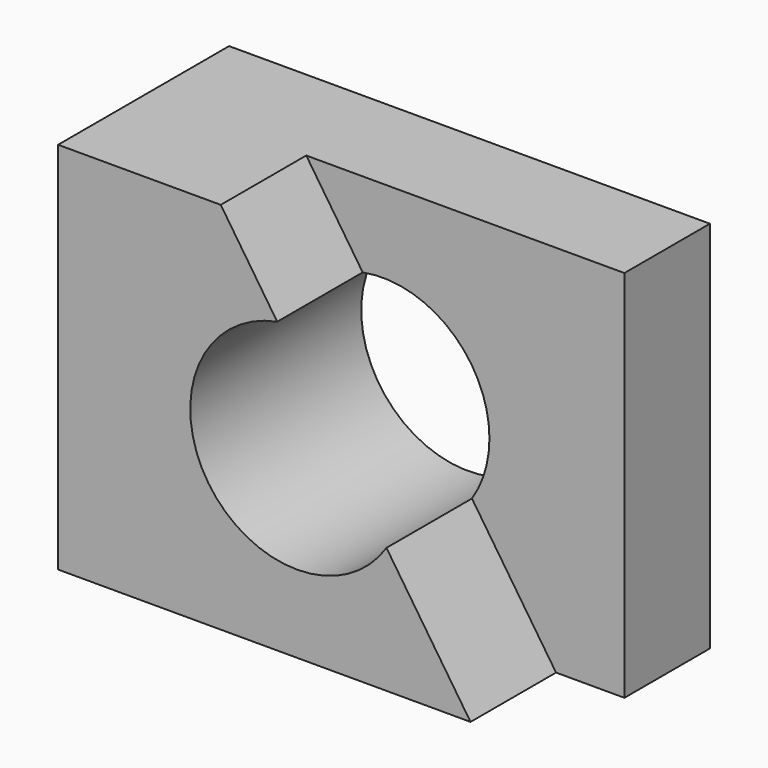
from build123d import *

# Parameters (mm, degrees)
F0_W     = 114.3
F0_H     = 50.8
F1_DEPTH = 88.9
F3_DEPTH = 25.4
F5_DEPTH = 25.4
F6_R     = 25.4
F7_DEPTH = 92.202


with BuildPart() as f1:
    # F0 (on Top) → F1 (new body)
    with BuildSketch(Plane.XY):
        with Locations((37.11038, -46.895293)):
            Rectangle(F0_W, F0_H)
    extrude(amount=F1_DEPTH)

    # F2 (on face) → F3 (cut)
    with BuildSketch(Plane.XZ.offset(72.295293)):
        Polygon((68.86038, 0), (94.26038, 0), (94.26038, 88.9), (18.62484, 88.9), align=None)
        Polygon((18.62484, 0), (68.86038, 0), (18.62484, 88.9), align=None)
    extrude(amount=-F3_DEPTH, mode=Mode.SUBTRACT)

    # F4 (on face) → F5 (join)
    with BuildSketch(Plane.XZ.offset(46.895293)):
        Polygon((78.006379, 0), (18.62484, 88.9), (18.62484, 0), align=None)
    extrude(amount=F5_DEPTH)

    # F6 (on face) → F7 (cut)
    with BuildSketch(Plane.XZ.offset(72.295293)):
        with Locations((36.774643, 43.852847)):
            Circle(F6_R)
    extrude(amount=-F7_DEPTH, mode=Mode.SUBTRACT)


solid = f1.part
